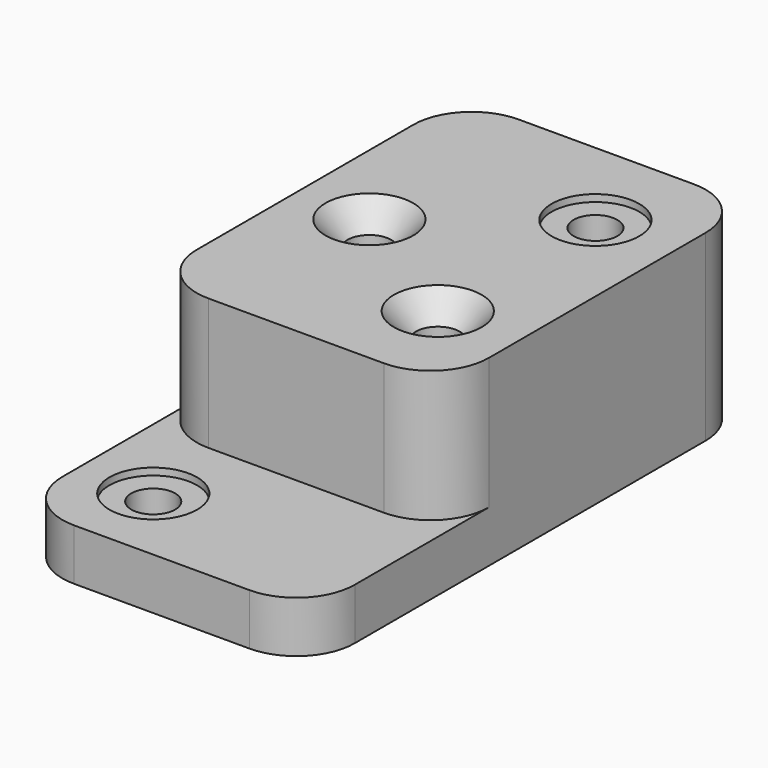
from build123d import *

# Parameters (mm, degrees)
F1_DEPTH             = 22.352
F2_DEPTH             = 79.502
F5_D                 = 19.05
F5_CBORE_D           = 38.1
F5_CBORE_DEPTH       = 3.048
F5_ON_F4_D           = 19.05
F5_ON_F4_CBORE_D     = 38.1
F5_ON_F4_CBORE_DEPTH = 3.048
F6_D                 = 19.05
F6_CSINK_D           = 38.1
F6_CSINK_ANGLE       = 82


with BuildPart() as f1:
    # F0 (on Top) → F1 (new body)
    with BuildSketch(Plane.XY):
        with BuildLine():
            ThreePointArc((25.4, 0), (7.4394877579, 7.4394877579), (0, 25.4))
            Line((0, 25.4), (0, -47.498))
            ThreePointArc((0, -47.498), (7.4394877579, -65.4585122421), (25.4, -72.898))
            Line((25.4, -72.898), (101.6, -72.898))
            ThreePointArc((101.6, -72.898), (119.5605122421, -65.4585122421), (127, -47.498))
            Line((127, -47.498), (127, 25.4))
            ThreePointArc((127, 25.4), (119.5605122421, 7.4394877579), (101.6, 0))
            Line((101.6, 0), (25.4, 0))
        make_face()
    extrude(amount=F1_DEPTH)

    # F0 (on Top) → F2 (join)
    with BuildSketch(Plane.XY):
        with BuildLine():
            Line((0, 143.002), (0, 25.4))
            ThreePointArc((0, 25.4), (7.4394877579, 7.4394877579), (25.4, 0))
            Line((25.4, 0), (101.6, 0))
            ThreePointArc((101.6, 0), (119.5605122421, 7.4394877579), (127, 25.4))
            Line((127, 25.4), (127, 143.002))
            ThreePointArc((127, 143.002), (119.5605122421, 160.9625122421), (101.6, 168.402))
            Line((101.6, 168.402), (25.4, 168.402))
            ThreePointArc((25.4, 168.402), (7.4394877579, 160.9625122421), (0, 143.002))
        make_face()
    extrude(amount=F2_DEPTH)

    # F5 (through all)
    with Locations(Plane.XY.offset(79.502)):
        with Locations((91.948, 127)):
            CounterBoreHole(F5_D / 2, F5_CBORE_D / 2, F5_CBORE_DEPTH)

    # F5 on F4 (through all)
    with Locations(Plane.XY.offset(22.352)):
        with Locations((31.75, -37.846)):
            CounterBoreHole(F5_ON_F4_D / 2, F5_ON_F4_CBORE_D / 2, F5_ON_F4_CBORE_DEPTH)

    # F6 (through all)
    with Locations(Plane.XY.offset(79.502)):
        with Locations((31.75, 79.502), (91.948, 41.402)):
            CounterSinkHole(F6_D / 2, F6_CSINK_D / 2, counter_sink_angle=F6_CSINK_ANGLE)


solid = f1.part
